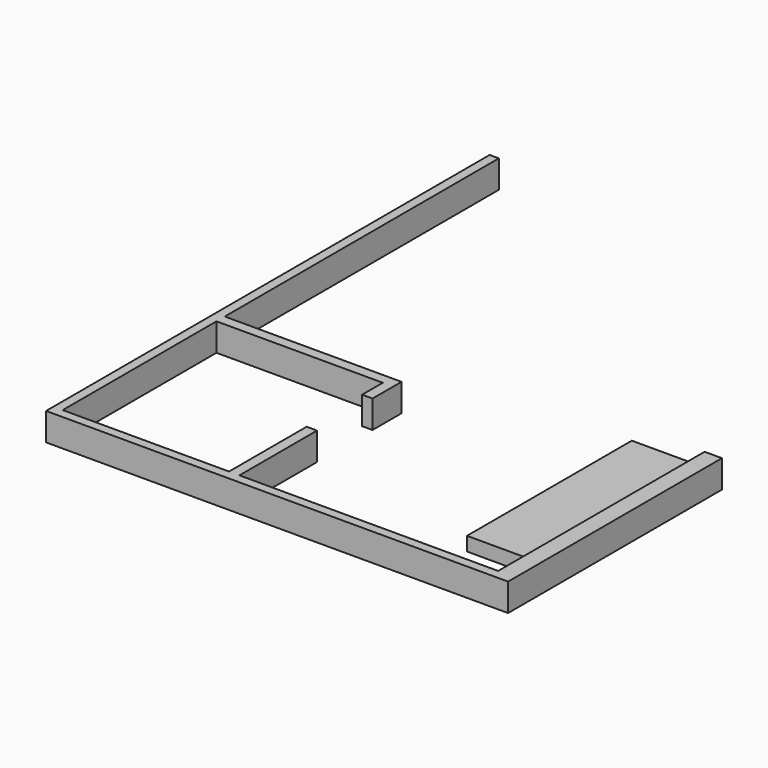
from build123d import *

# Parameters (mm, degrees)
F4_DEPTH = 304.8
F2_W     = 990.6
F2_H     = 2265.68
F5_DEPTH = 152.4
F6_W     = 114.3
F6_H     = 1066.8
F7_DEPTH = 304.8


with BuildPart() as f4:
    # F3 (on Top) → F4 (new body)
    with BuildSketch(Plane.XY):
        Polygon((101.6, 101.6), (101.6, 6096), (0, 6096), (0, 0), (5080, 0), (5080, 2938.78), (4889.5, 2938.78), (4889.5, 101.6), align=None)
    extrude(amount=F4_DEPTH)

    # F2 (on Top) → F5 (join)
    with BuildSketch(Plane.XY):
        with Locations((4584.7, 1805.94)):
            Rectangle(F2_W, F2_H)
    extrude(amount=F5_DEPTH)

    # F6 (on Top) → F7 (join)
    with BuildSketch(Plane.XY):
        Polygon((2044.7, 2329.18), (101.6, 2329.18), (101.6, 2214.88), (1930.4, 2214.88), (1930.4, 1930.4), (2044.7, 1930.4), align=None)
        with Locations((1987.55, 635)):
            Rectangle(F6_W, F6_H)
    extrude(amount=F7_DEPTH)


solid = f4.part
